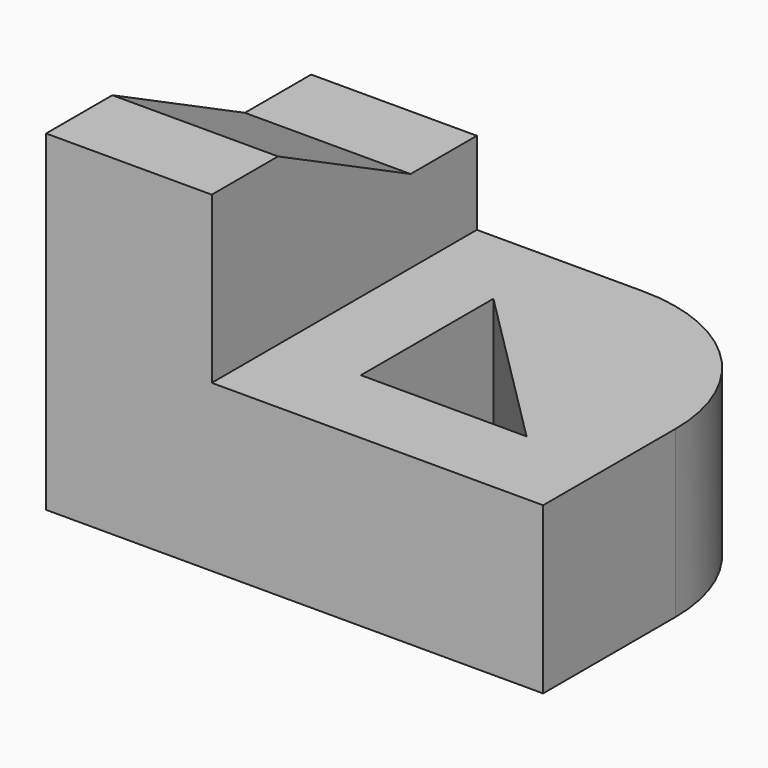
from build123d import *

# Parameters (mm, degrees)
F1_DEPTH = 20
F3_DEPTH = 20.001
F5_DEPTH = 20


with BuildPart() as f1:
    # F0 (on Top) → F1 (new body)
    with BuildSketch(Plane.XY):
        with BuildLine():
            Line((0, 40), (0, 0))
            Line((0, 0), (60, 0))
            Line((60, 0), (60, 20))
            ThreePointArc((60, 20), (54.142136, 34.142136), (40, 40))
            Line((40, 40), (0, 40))
        make_face()
    extrude(amount=F1_DEPTH)

    # F2 (on face) → F3 (cut, through all)
    with BuildSketch(Plane.XY.offset(20)):
        Polygon((50, 10), (30, 30), (30, 10), align=None)
    extrude(amount=-F3_DEPTH, mode=Mode.SUBTRACT)

    # F4 (on Right) → F5 (join)
    with BuildSketch(Plane.YZ):
        Polygon((0, 40), (0, 20), (40, 20), (40, 30), (30, 30), (10, 40), align=None)
    extrude(amount=F5_DEPTH)


solid = f1.part
